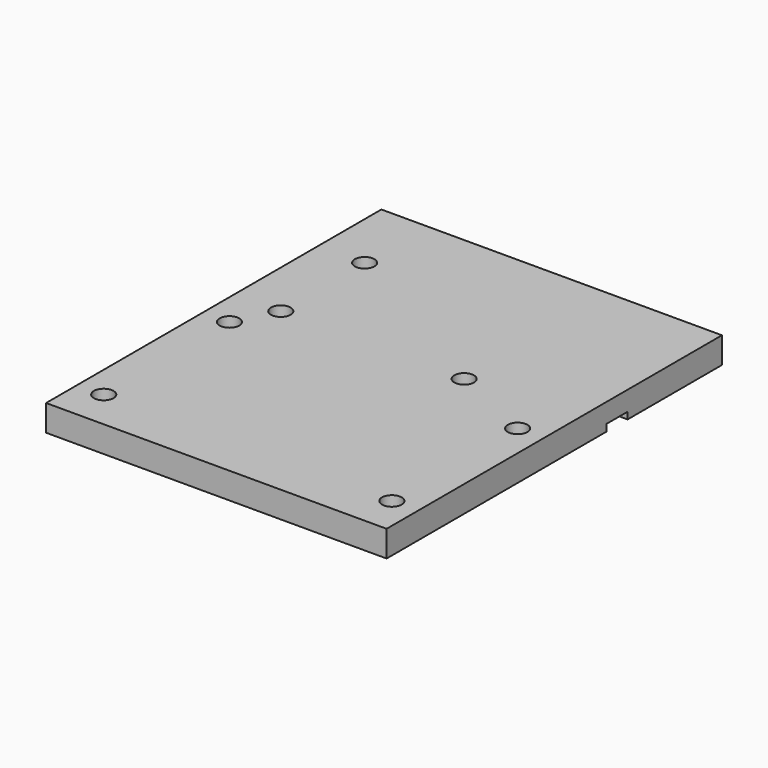
from build123d import *

# Parameters (mm, degrees)
F0_W     = 165.1
F0_H     = 203.2
F0_R     = 4.7625
F1_DEPTH = 12.7
F2_W     = 12.7
F2_H     = 3.302
F3_DEPTH = 165.101


with BuildPart() as f1:
    # F0 (on Top) → F1 (new body)
    with BuildSketch(Plane.XY):
        Rectangle(F0_W, F0_H)
        with Locations((-69.85, -82.55)):
            Circle(F0_R, mode=Mode.SUBTRACT)
        with Locations((-69.85, -6.35)):
            Circle(F0_R, mode=Mode.SUBTRACT)
        with Locations((69.85, -82.55)):
            Circle(F0_R, mode=Mode.SUBTRACT)
        with Locations((69.85, -6.35)):
            Circle(F0_R, mode=Mode.SUBTRACT)
        with Locations((-60.198, 12.7)):
            Circle(F0_R, mode=Mode.SUBTRACT)
        with Locations((-60.198, 63.5)):
            Circle(F0_R, mode=Mode.SUBTRACT)
        with Locations((28.702, 12.7)):
            Circle(F0_R, mode=Mode.SUBTRACT)
    extrude(amount=F1_DEPTH)

    # F2 (on face) → F3 (cut, through all)
    with BuildSketch(Plane(origin=(-82.55, 0, 0), x_dir=(0, -1, 0), z_dir=(-1, 0, 0))):
        with Locations((-38.1, 1.651)):
            Rectangle(F2_W, F2_H)
    extrude(amount=-F3_DEPTH, mode=Mode.SUBTRACT)


solid = f1.part
